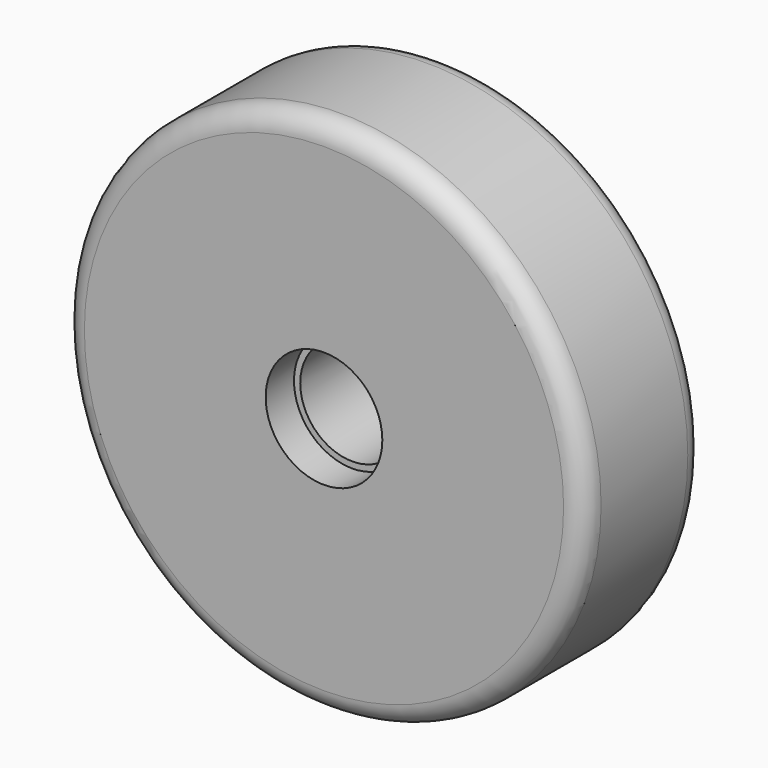
from build123d import *

# Parameters (mm, degrees)
F0_R     = 62.5
F1_DEPTH = 36
F2_R     = 5
F3_R     = 12.5
F4_DEPTH = 36.001
F5_R     = 14
F6_DEPTH = 8.5
F7_R     = 14
F8_DEPTH = 10


with BuildPart() as f1:
    # F0 (on Front) → F1 (new body)
    with BuildSketch(Plane.XZ):
        Circle(F0_R)
    extrude(amount=F1_DEPTH)

    # F2
    f2_edges = [f1.edges().sort_by_distance(p)[0] for p in [
        (-62.5, -36, 0),
        (-62.5, 0, 0),
    ]]
    fillet(f2_edges, radius=F2_R)

    # F3 (on face) → F4 (cut, through all)
    with BuildSketch(Plane(origin=(0, 0, 0), x_dir=(-1, 0, 0), z_dir=(0, 1, 0))):
        Circle(F3_R)
    extrude(amount=-F4_DEPTH, mode=Mode.SUBTRACT)

    # F5 (on face) → F6 (cut)
    with BuildSketch(Plane.XZ.offset(36)):
        Circle(F5_R)
    extrude(amount=-F6_DEPTH, mode=Mode.SUBTRACT)

    # F7 (on face) → F8 (cut)
    with BuildSketch(Plane(origin=(0, 0, 0), x_dir=(-1, 0, 0), z_dir=(0, 1, 0))):
        Circle(F7_R)
    extrude(amount=-F8_DEPTH, mode=Mode.SUBTRACT)


solid = f1.part
